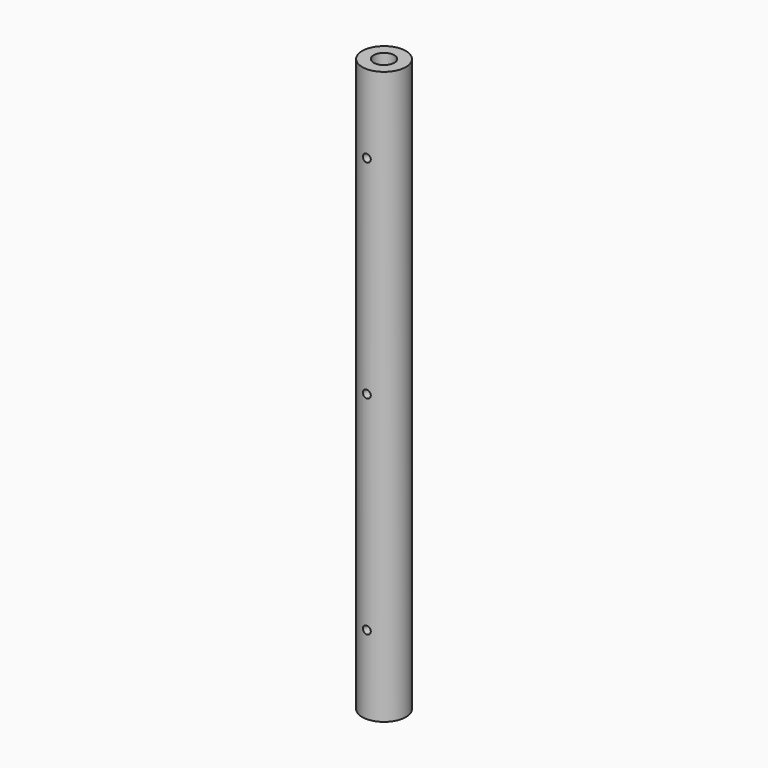
from build123d import *

# Parameters (mm, degrees)
SKETCH_R          = 8.35
SKETCH_R_2        = 3.95
PAD_DEPTH         = 219
SKETCH001_R       = 1.5
POCKET_DEPTH      = 100
POCKET_DEPTH_BACK = -100


with BuildPart() as part:
    # Sketch → Pad (new body)
    with BuildSketch(Plane.XY):
        Circle(SKETCH_R)
        Circle(SKETCH_R_2, mode=Mode.SUBTRACT)
    extrude(amount=PAD_DEPTH)

    # Sketch001 → Pocket (cut, two sides)
    with BuildSketch(Plane.XZ) as pocket_sk:
        with Locations((0, 109.5)):
            Circle(SKETCH001_R)
        with Locations((0, 189)):
            Circle(SKETCH001_R)
        with Locations((0, 30)):
            Circle(SKETCH001_R)
    extrude(amount=-POCKET_DEPTH, mode=Mode.SUBTRACT)
    extrude(pocket_sk.sketch, amount=-POCKET_DEPTH_BACK, mode=Mode.SUBTRACT)


solid = part.part
